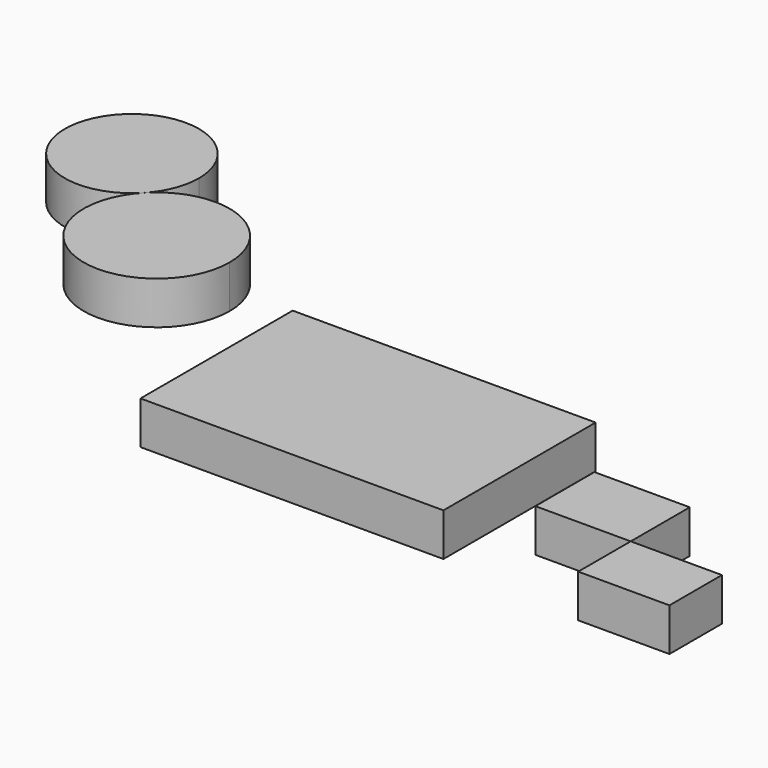
from build123d import *

# Parameters (mm, degrees)
F0_W     = 176.637814
F0_H     = 110.891848
F1_DEPTH = 25
F2_W     = 53.182662
F2_H     = 38.243696
F2_W_2   = 55.572867
F2_H_2   = 43.024168
F3_DEPTH = 25
F5_DEPTH = 25


with BuildPart() as f1:
    # F0 (on Top) → F1 (new body)
    with BuildSketch(Plane.XY):
        Rectangle(F0_W, F0_H)
    extrude(amount=-F1_DEPTH)


with BuildPart() as f3:
    # F2 (on Top) → F3 (new body)
    with BuildSketch(Plane.XY):
        with Locations((230.57279, -82.685821)):
            Rectangle(F2_W, F2_H)
        with Locations((176.195025, -42.051889)):
            Rectangle(F2_W_2, F2_H_2)
    extrude(amount=F3_DEPTH)


with BuildPart() as f5:
    # F4 (on Top) → F5 (new body)
    with BuildSketch(Plane.XY):
        with BuildLine():
            ThreePointArc((-183.797501, 66.291624), (-175.885617, 78.689059), (-173.117582, 93.133169))
            ThreePointArc((-173.117582, 93.133169), (-248.489575, 107.577279), (-183.797501, 66.291624))
        make_face()
        with BuildLine():
            ThreePointArc((-110.386824, 37.082419), (-137.184947, 76.586549), (-183.797501, 66.291624))
            ThreePointArc((-183.797501, 66.291624), (-168.621362, -2.421711), (-110.386824, 37.082419))
        make_face()
    extrude(amount=F5_DEPTH)


solid = Compound([f1.part, f3.part, f5.part])
